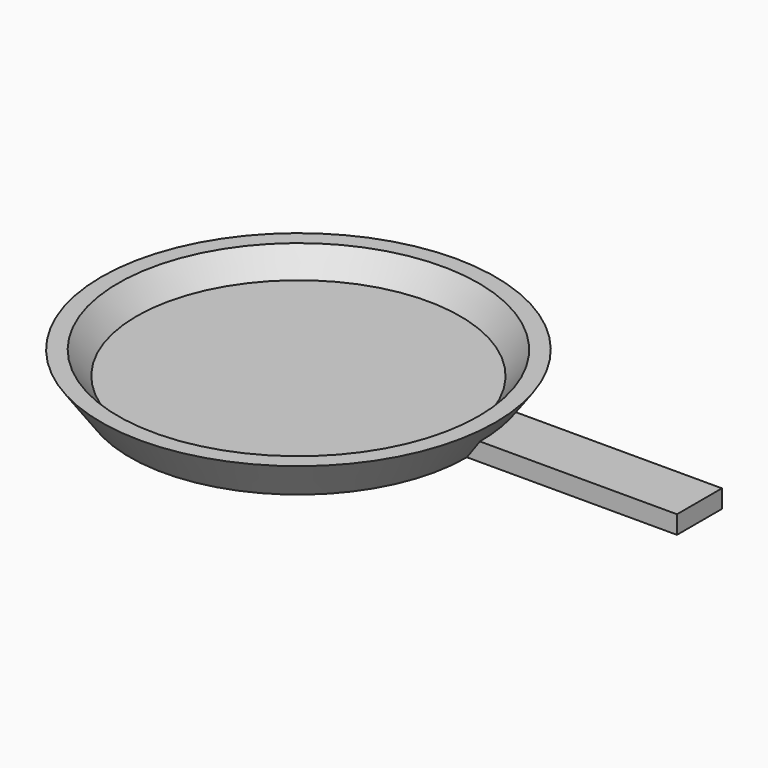
from build123d import *

# Parameters (mm, degrees)
SKETCH001_AS_DRAWN_W              = 18.720886
SKETCH001_AS_DRAWN_H              = 1.61615
EXTRUDE_DEPTH                     = 5
EXTRUDE_ONTO_SKETCH001_ROLL_ANGLE = 90
REVOLVE_ONTO_SKETCH_ROLL_ANGLE    = 90


with BuildPart() as pan_handle:
    # Sketch001 as drawn → Extrude (new)
    with BuildSketch(Plane.XY):
        with Locations((24.33337, 0.808075)):
            Rectangle(SKETCH001_AS_DRAWN_W, SKETCH001_AS_DRAWN_H)
    extrude(amount=-EXTRUDE_DEPTH)


with BuildPart() as pan_handle_1:
    # Extrude onto Sketch001 roll: moved
    add(pan_handle.part.rotate(Axis((0, 0, 0), (1, 0, 0)), EXTRUDE_ONTO_SKETCH001_ROLL_ANGLE))


with BuildPart() as pan_handle_2:
    # Extrude onto Sketch001 placement: moved
    add(pan_handle_1.part)


with BuildPart() as pan:
    # Sketch as drawn → Revolve (revolve)
    with BuildSketch(Plane.XY):
        Polygon((0, 0), (15, 0), (17.539625, 3.555642), (16.039625, 3.555642), (14.4, 1.5), (0, 1.5), align=None)
    revolve(axis=Axis((0, 0, 0), (0, 1, 0)))


with BuildPart() as pan_1:
    # Revolve onto Sketch roll: moved
    add(pan.part.rotate(Axis((0, 0, 0), (1, 0, 0)), REVOLVE_ONTO_SKETCH_ROLL_ANGLE))


with BuildPart() as pan_2:
    # Revolve onto Sketch placement: moved
    add(pan_1.part)

    # Fusion: union PAN_HANDLE
    add(pan_handle_2.part)


solid = pan_2.part
